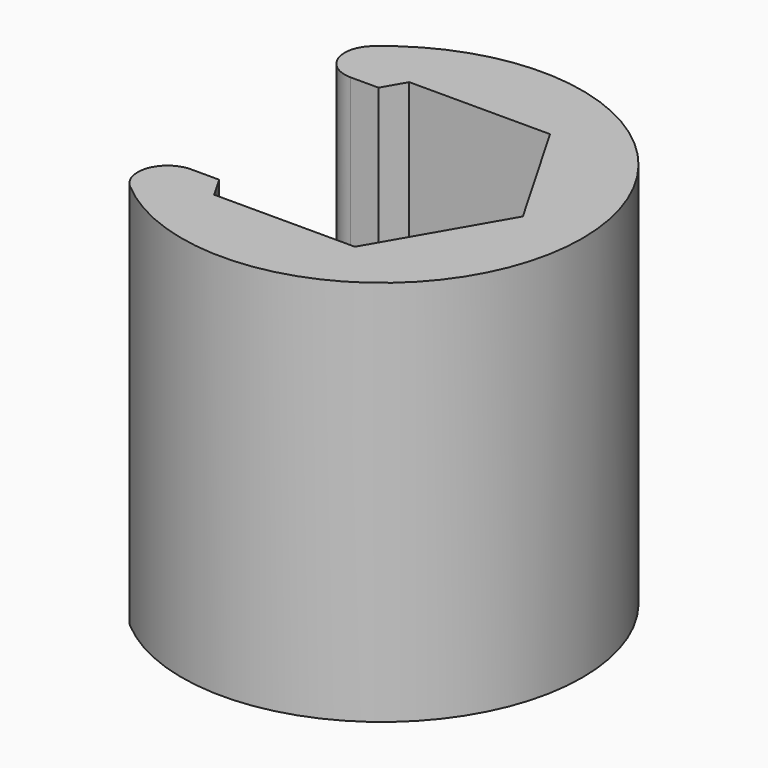
from build123d import *

# Parameters (mm, degrees)
F1_DEPTH = 5
F3_DEPTH = 8
F4_R     = 1
F5_ANGLE = 180


with BuildPart() as f1:
    # F0 (on Top) → F1 (new body)
    with BuildSketch(Plane.XY):
        with BuildLine():
            Line((-4.734272, 0), (-2.367136, 4.1))
            Line((-2.367136, 4.1), (2.367136, 4.1))
            Line((2.367136, 4.1), (2.800149, 3.35))
            Line((2.800149, 3.35), (5.841911, 3.35))
            ThreePointArc((5.841911, 3.35), (-6.734272, 0), (5.841911, -3.35))
            Line((5.841911, -3.35), (2.800149, -3.35))
            Line((2.800149, -3.35), (2.367136, -4.1))
            Line((2.367136, -4.1), (-2.367136, -4.1))
            Line((-2.367136, -4.1), (-4.734272, 0))
        make_face()
    extrude(amount=-F1_DEPTH)

    # F2 (on Top) → F3 (join)
    with BuildSketch(Plane.XY):
        with BuildLine():
            Line((5.841911, -3.35), (3.35, -3.35))
            Line((3.35, -3.35), (-3.35, -3.35))
            Line((-3.35, -3.35), (-3.35, 3.35))
            Line((-3.35, 3.35), (3.35, 3.35))
            Line((3.35, 3.35), (5.841911, 3.35))
            ThreePointArc((5.841911, 3.35), (-6.734272, 0), (5.841911, -3.35))
        make_face()
    extrude(amount=F3_DEPTH)

    # F4
    f4_edges = [f1.edges().sort_by_distance(p)[0] for p in [
        (5.841911, 3.35, 1.5),
        (5.841911, -3.35, 1.5),
    ]]
    fillet(f4_edges, radius=F4_R)


with BuildPart() as f1_1:
    # F5: moved
    add(f1.part.rotate(Axis((-3.35, 0, 8), (0, -1, 0)), F5_ANGLE))


solid = f1_1.part
